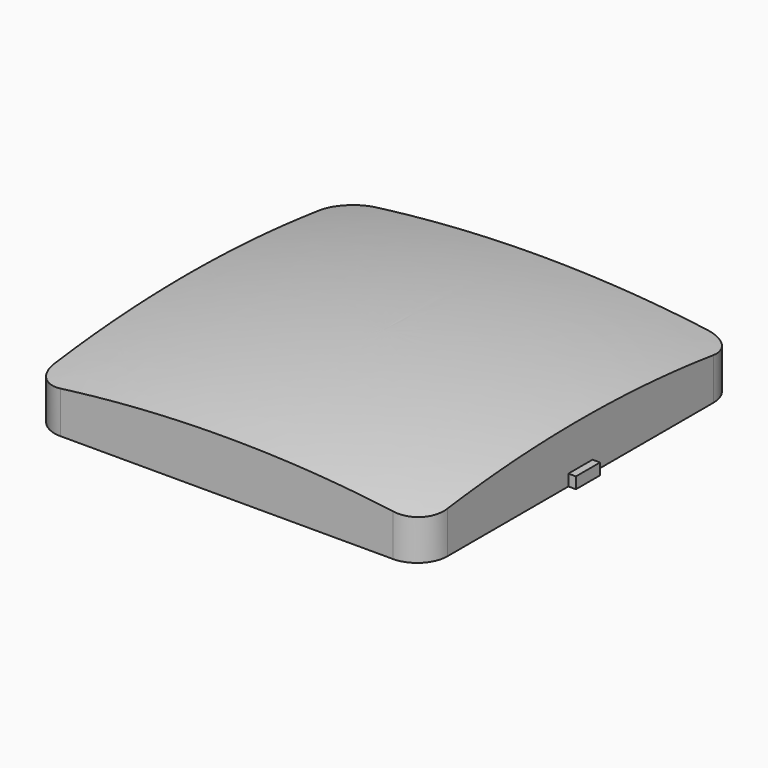
from build123d import *

# Parameters (mm, degrees)
PAD_DEPTH    = 9
PAD001_DEPTH = 9
SKETCH004_W  = 4
SKETCH004_H  = 1.5
PAD002_DEPTH = 1


with BuildPart() as inner_cut_cap:
    # Sketch → Revolution (revolve)
    with BuildSketch(Plane.YZ):
        with BuildLine():
            ThreePointArc((60, -12.940263), (30.494628, -4.757429), (0, -2))
            Line((0, -2), (0, 18))
            Line((0, 18), (60, 18))
            Line((60, -12.940263), (60, 18))
        make_face()
    revolve(axis=Axis((0, 0, 0), (0, 0, 1)))


with BuildPart() as inner_cut:
    # Sketch001 → Pad (new body)
    with BuildSketch(Plane.XY):
        with BuildLine():
            Line((-24.5, 22.231483), (-24.491482, -22.268517))
            ThreePointArc((-24.491482, -22.268517), (-23.688703, -23.703645), (-22.25, -24.5))
            Line((-22.25, -24.5), (22.25, -24.5))
            ThreePointArc((22.25, -24.5), (23.688703, -23.703645), (24.491482, -22.268517))
            Line((24.5, 22.231483), (24.491482, -22.268517))
            ThreePointArc((24.5, 22.231483), (23.702126, 23.690197), (22.25, 24.5))
            Line((-22.25, 24.5), (22.25, 24.5))
            ThreePointArc((-22.25, 24.5), (-23.702126, 23.690197), (-24.5, 22.231483))
        make_face()
    extrude(amount=-PAD_DEPTH)

    # Cut: cut inner_cut_cap
    add(inner_cut_cap.part, mode=Mode.SUBTRACT)


with BuildPart() as external_cut:
    # Sketch002 → Revolution001 (revolve)
    with BuildSketch(Plane.YZ):
        with BuildLine():
            ThreePointArc((60, -10.940263), (30.494628, -2.757429), (0, 0))
            Line((0, 20), (0, 0))
            Line((60, 20), (0, 20))
            Line((60, -10.940263), (60, 20))
        make_face()
    revolve(axis=Axis((0, 0, 0), (0, 0, 1)))


with BuildPart() as cut002:
    # Sketch003 → Pad001 (new body)
    with BuildSketch(Plane.XY):
        with BuildLine():
            Line((-26.000018, 21.999999), (-26.000018, -22.000001))
            ThreePointArc((-26.000018, -22.000001), (-24.828438, -24.828434), (-22, -26))
            Line((-22, -26), (21.999982, -26))
            ThreePointArc((21.999982, -26), (24.828409, -24.828427), (25.999982, -22.000001))
            Line((25.999982, 21.999999), (25.999982, -22.000001))
            ThreePointArc((25.999982, 21.999999), (24.828416, 24.828421), (22, 26))
            Line((-22, 26), (22, 26))
            ThreePointArc((-22, 26), (-24.828439, 24.828433), (-26.000018, 21.999999))
        make_face()
    extrude(amount=-PAD001_DEPTH)

    # Sketch004 (on Face6 of Pad001) → Pad002 (join)
    with BuildSketch(Plane.YZ.offset(25.999982)):
        with Locations((0, -8.25)):
            Rectangle(SKETCH004_W, SKETCH004_H)
    pad002 = extrude(amount=PAD002_DEPTH)

    # Mirrored: Pad002 across YZ
    add(pad002.mirror(Plane.YZ))

    # Cut001: cut external_cut
    add(external_cut.part, mode=Mode.SUBTRACT)

    # Cut002: cut inner_cut
    add(inner_cut.part, mode=Mode.SUBTRACT)


solid = cut002.part
